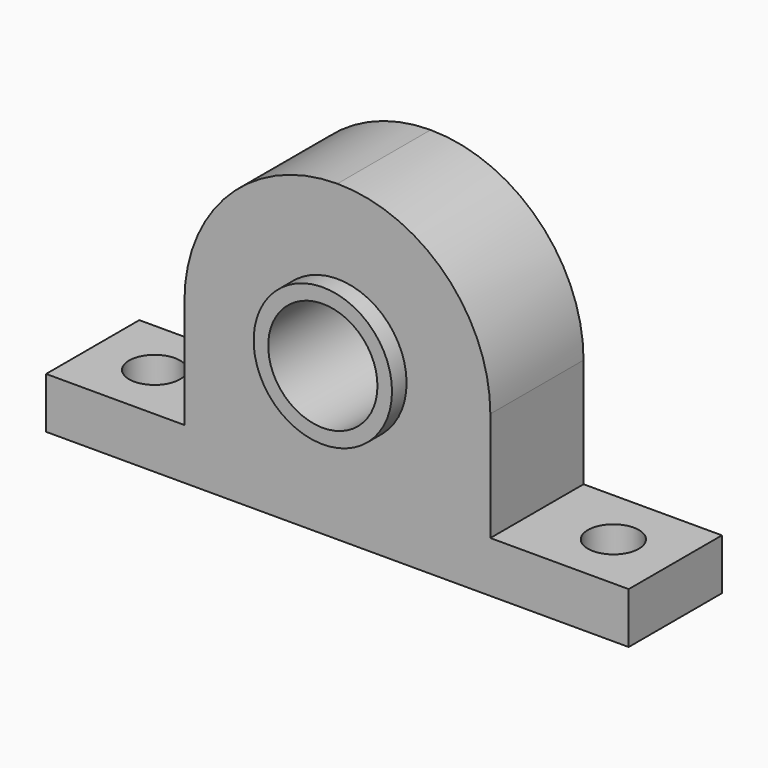
from build123d import *

# Parameters (mm, degrees)
F0_R     = 9.5
F0_R_2   = 7.5
F1_DEPTH = 18.5
F2_DEPTH = 16
F3_R     = 3.5
F4_DEPTH = 7.001


with BuildPart() as f1:
    # F0 (on Front) → F1 (new body)
    with BuildSketch(Plane.XZ):
        Circle(F0_R)
        Circle(F0_R_2, mode=Mode.SUBTRACT)
    extrude(amount=F1_DEPTH)

    # F0 (on Front) → F2 (join)
    with BuildSketch(Plane.XZ):
        with BuildLine():
            Line((-40, -22), (0, -22))
            Line((0, -22), (40, -22))
            Line((40, -22), (40, -15))
            Line((40, -15), (21, -15))
            Line((21, -15), (21, 0))
            ThreePointArc((21, 0), (14.849242, 14.849242), (0, 21))
            ThreePointArc((0, 21), (-14.849242, 14.849242), (-21, 0))
            Line((-21, 0), (-21, -15))
            Line((-21, -15), (-40, -15))
            Line((-40, -15), (-40, -22))
        make_face()
        Circle(F0_R, mode=Mode.SUBTRACT)
    extrude(amount=F2_DEPTH)

    # F3 (on face) → F4 (cut, through all)
    with BuildSketch(Plane.XY.offset(-15)):
        with Locations((-31.5, -8)):
            Circle(F3_R)
        with Locations((31.5, -8)):
            Circle(F3_R)
    extrude(amount=-F4_DEPTH, mode=Mode.SUBTRACT)


solid = f1.part
